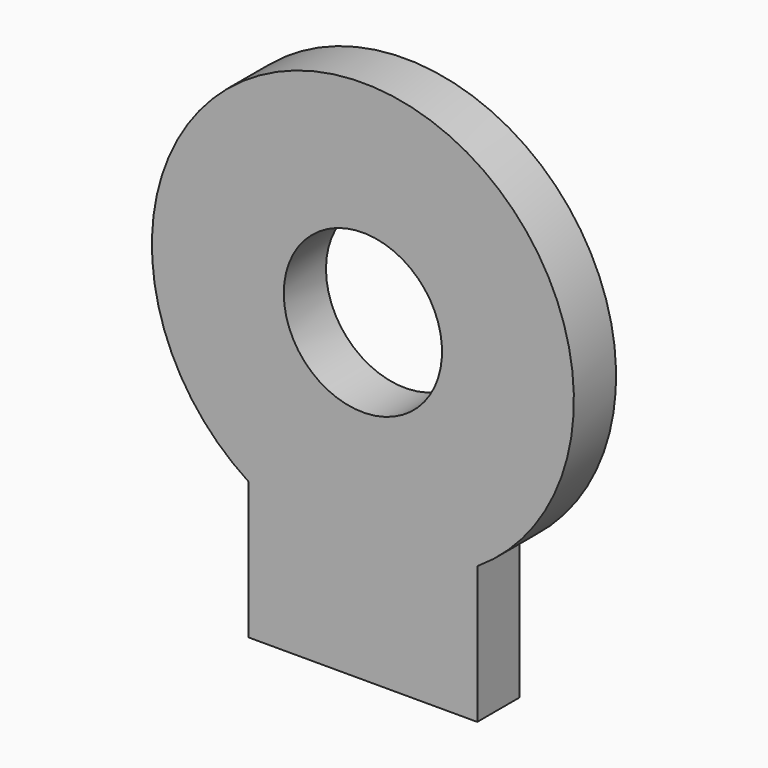
from build123d import *

# Parameters (mm, degrees)
F1_DEPTH = 12.7
F3_D     = 38.1


with BuildPart() as f1:
    # F0 (on Front) → F1 (new body)
    with BuildSketch(Plane.XZ):
        with BuildLine():
            Line((27.533314, -75.711411), (27.533314, -42.691411))
            ThreePointArc((27.533314, -42.691411), (0, 50.8), (-27.533314, -42.691411))
            Line((-27.533314, -42.691411), (-27.533314, -75.711411))
            Line((-27.533314, -75.711411), (27.533314, -75.711411))
        make_face()
    extrude(amount=F1_DEPTH)

    # F3 (through all)
    with Locations(Plane.XZ.offset(12.7)):
        with Locations((0, 0)):
            Hole(F3_D / 2)


solid = f1.part
